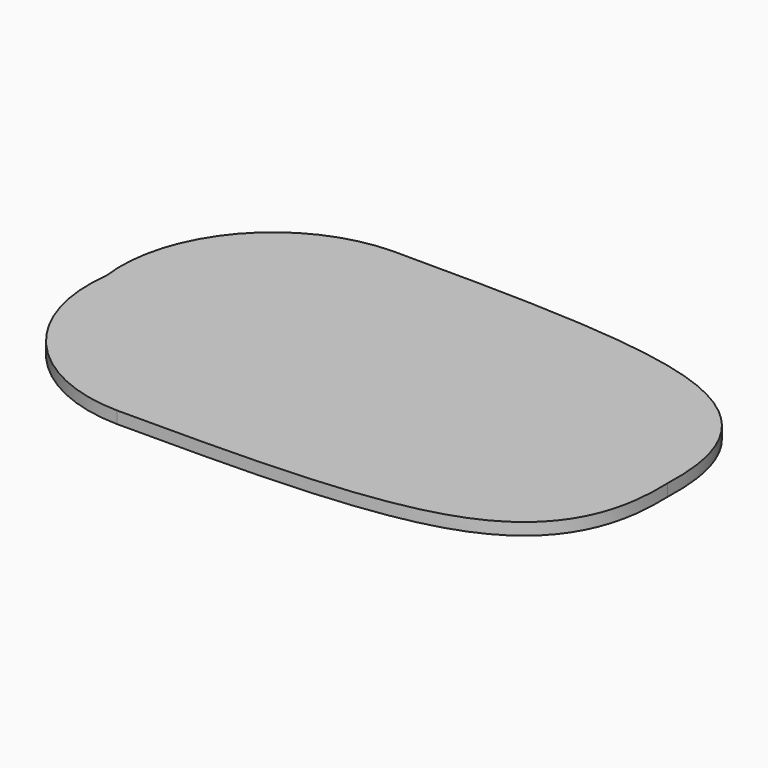
from build123d import *

# Parameters (mm, degrees)
PAD_DEPTH = 3


with BuildPart() as part:
    # Sketch → Pad (new body)
    with BuildSketch(Plane.XY):
        with BuildLine():
            Line((-70, 0), (70, 0))
            add(Edge.make_bspline(
                [(-32.859099, -43), (0, -43), (58.690701, -42.750378), (70.673752, -17.227602), (70, 0)],
                knots=[0, 0, 0, 0, 0.5, 1, 1, 1, 1], degree=3))
            ThreePointArc((-32.859099, -43), (-61.088644, -29.842965), (-70, 0))
        make_face()
    pad = extrude(amount=PAD_DEPTH)

    # Mirrored: Pad across XZ
    add(pad.mirror(Plane.XZ))


solid = part.part
